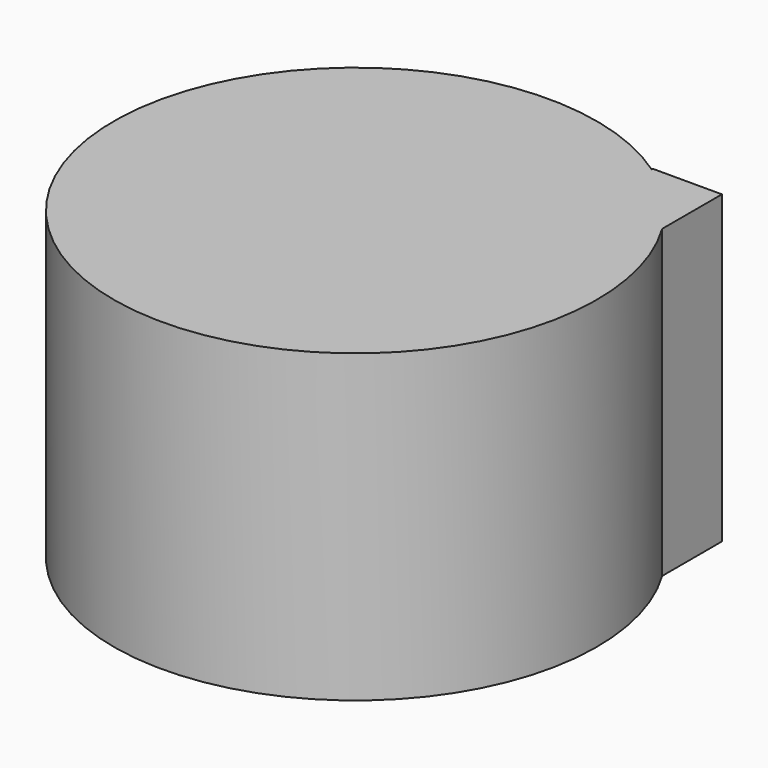
from build123d import *

# Parameters (mm, degrees)
F0_R     = 39.528011
F1_DEPTH = 50
F2_W     = 11.31653
F2_H     = 12.345307
F3_DEPTH = 50


with BuildPart() as f1:
    # F0 (on Top) → F1 (new body)
    with BuildSketch(Plane.XY):
        Circle(F0_R)
    extrude(amount=F1_DEPTH)

    # F2 (on Top) → F3 (join)
    with BuildSketch(Plane.XY):
        with Locations((28.119873, 26.576701)):
            Rectangle(F2_W, F2_H)
    extrude(amount=F3_DEPTH)


solid = f1.part
